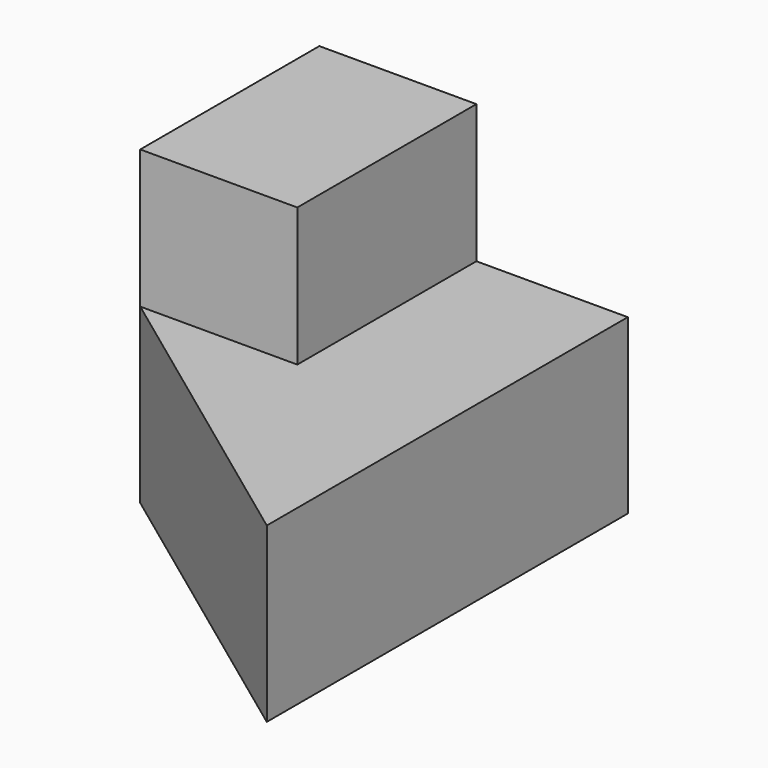
from build123d import *

# Parameters (mm, degrees)
F1_DEPTH = 25
F2_W     = 22.711599
F2_H     = 32.366507
F3_DEPTH = 20


with BuildPart() as f1:
    # F0 (on Top) → F1 (new body)
    with BuildSketch(Plane.XY):
        Polygon((0, 32.366507), (0, 0), (44.599514, -32.876216), (44.599514, 32.366507), align=None)
    extrude(amount=F1_DEPTH)


with BuildPart() as f3:
    # F2 (on face) → F3 (new body)
    with BuildSketch(Plane.XY.offset(25)):
        with Locations((11.355799, 16.183253)):
            Rectangle(F2_W, F2_H)
    extrude(amount=F3_DEPTH)


with BuildPart() as f4_1:
    # F4: copy of F1
    add(f1.part)


solid = Compound([f1.part, f3.part, f4_1.part])
